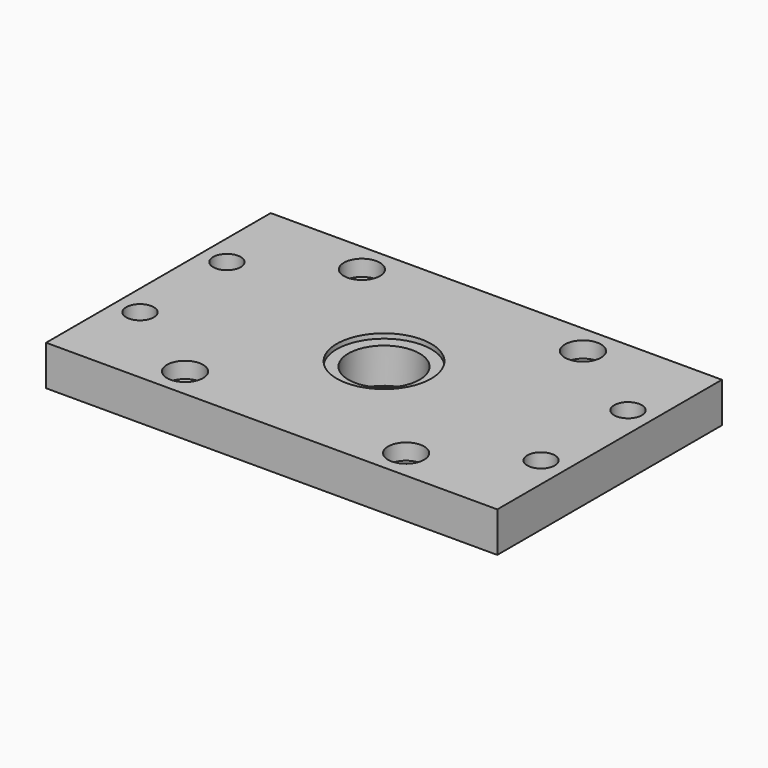
from build123d import *

# Parameters (mm, degrees)
F0_W     = 285.75
F0_H     = 177.8
F0_R     = 11.43
F0_R_2   = 8.73125
F0_R_3   = 29.9085
F1_DEPTH = 25.4
F0_R_4   = 22.5425
F2_DEPTH = 22.4028
F0_R_5   = 8.128
F3_DEPTH = 15.24
F4_DEPTH = 15.24
F5_DEPTH = 15.24
F6_DEPTH = 15.24


with BuildPart() as f1:
    # F0 (on Top) → F1 (new body)
    with BuildSketch(Plane.XY):
        Rectangle(F0_W, F0_H)
        with Locations((-70.0024, -70.0024)):
            Circle(F0_R, mode=Mode.SUBTRACT)
        with Locations((-127, -34.417)):
            Circle(F0_R_2, mode=Mode.SUBTRACT)
        with Locations((70.0024, -70.0024)):
            Circle(F0_R, mode=Mode.SUBTRACT)
        with Locations((127, -34.417)):
            Circle(F0_R_2, mode=Mode.SUBTRACT)
        with Locations((-127, 34.417)):
            Circle(F0_R_2, mode=Mode.SUBTRACT)
        with Locations((-70.0024, 70.0024)):
            Circle(F0_R, mode=Mode.SUBTRACT)
        Circle(F0_R_3, mode=Mode.SUBTRACT)
        with Locations((127, 34.417)):
            Circle(F0_R_2, mode=Mode.SUBTRACT)
        with Locations((70.0024, 70.0024)):
            Circle(F0_R, mode=Mode.SUBTRACT)
    extrude(amount=F1_DEPTH)

    # F0 (on Top) → F2 (join)
    with BuildSketch(Plane.XY):
        Circle(F0_R_3)
        Circle(F0_R_4, mode=Mode.SUBTRACT)
    extrude(amount=F2_DEPTH)

    # F0 (on Top) → F3 (join)
    with BuildSketch(Plane.XY):
        with Locations((-70.0024, 70.0024)):
            Circle(F0_R)
        with Locations((-70.0024, 70.0024)):
            Circle(F0_R_5, mode=Mode.SUBTRACT)
    extrude(amount=F3_DEPTH)

    # F0 (on Top) → F4 (join)
    with BuildSketch(Plane.XY):
        with Locations((70.0024, 70.0024)):
            Circle(F0_R)
        with Locations((70.0024, 70.0024)):
            Circle(F0_R_5, mode=Mode.SUBTRACT)
    extrude(amount=F4_DEPTH)

    # F0 (on Top) → F5 (join)
    with BuildSketch(Plane.XY):
        with Locations((-70.0024, -70.0024)):
            Circle(F0_R)
        with Locations((-70.0024, -70.0024)):
            Circle(F0_R_5, mode=Mode.SUBTRACT)
    extrude(amount=F5_DEPTH)

    # F0 (on Top) → F6 (join)
    with BuildSketch(Plane.XY):
        with Locations((70.0024, -70.0024)):
            Circle(F0_R)
        with Locations((70.0024, -70.0024)):
            Circle(F0_R_5, mode=Mode.SUBTRACT)
    extrude(amount=F6_DEPTH)


solid = f1.part
